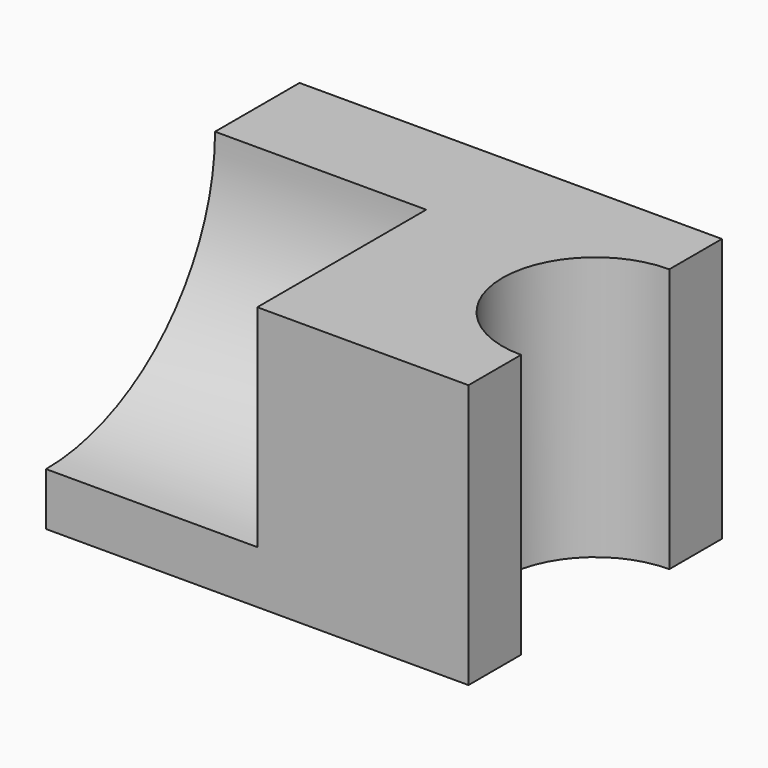
from build123d import *

# Parameters (mm, degrees)
F0_W     = 50.8
F0_H     = 31.75
F1_DEPTH = 38.1
F3_DEPTH = 31.75
F5_DEPTH = 25.4


with BuildPart() as f1:
    # F0 (on Front) → F1 (new body)
    with BuildSketch(Plane.XZ):
        with Locations((25.4, 15.875)):
            Rectangle(F0_W, F0_H)
    extrude(amount=F1_DEPTH)

    # F2 (on face) → F3 (cut)
    with BuildSketch(Plane.XY.offset(31.75)):
        with BuildLine():
            Line((50.8, -30.196967), (50.8, -7.903033))
            ThreePointArc((50.8, -7.903033), (39.653033, -19.05), (50.8, -30.196967))
        make_face()
    extrude(amount=-F3_DEPTH, mode=Mode.SUBTRACT)

    # F4 (on face) → F5 (cut)
    with BuildSketch(Plane(origin=(0, 0, 0), x_dir=(0, -1, 0), z_dir=(-1, 0, 0))):
        with BuildLine():
            Line((38.1, 31.75), (12.7, 31.75))
            ThreePointArc((12.7, 31.75), (20.139488, 13.789488), (38.1, 6.35))
            Line((38.1, 6.35), (38.1, 31.75))
        make_face()
    extrude(amount=-F5_DEPTH, mode=Mode.SUBTRACT)


solid = f1.part
